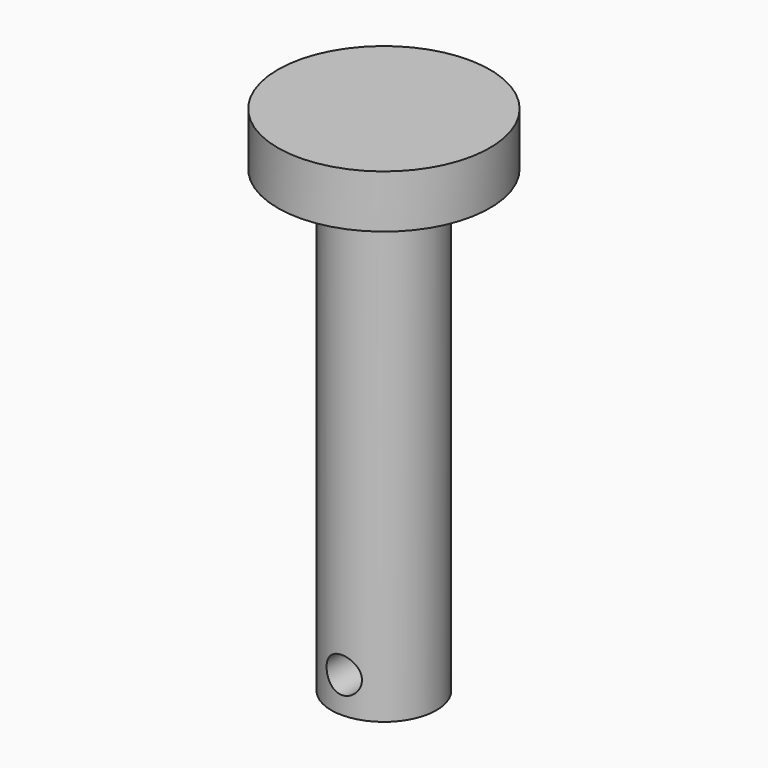
from build123d import *

# Parameters (mm, degrees)
F2_R     = 1
F3_DEPTH = 12.5


with BuildPart() as f1:
    # F0 (on Front) → F1 (revolve)
    with BuildSketch(Plane.XZ):
        Polygon((-2.975, 26), (-2.975, 0), (0, 0), (0, 29), (-6, 29), (-6, 26), align=None)
    revolve(axis=Axis((0, 0, 14.453638), (0, 0, -1)))

    # F2 (on Front) → F3 (cut, symmetric)
    with BuildSketch(Plane.XZ):
        with Locations((0, 2)):
            Circle(F2_R)
    extrude(amount=F3_DEPTH, both=True, mode=Mode.SUBTRACT)


solid = f1.part
